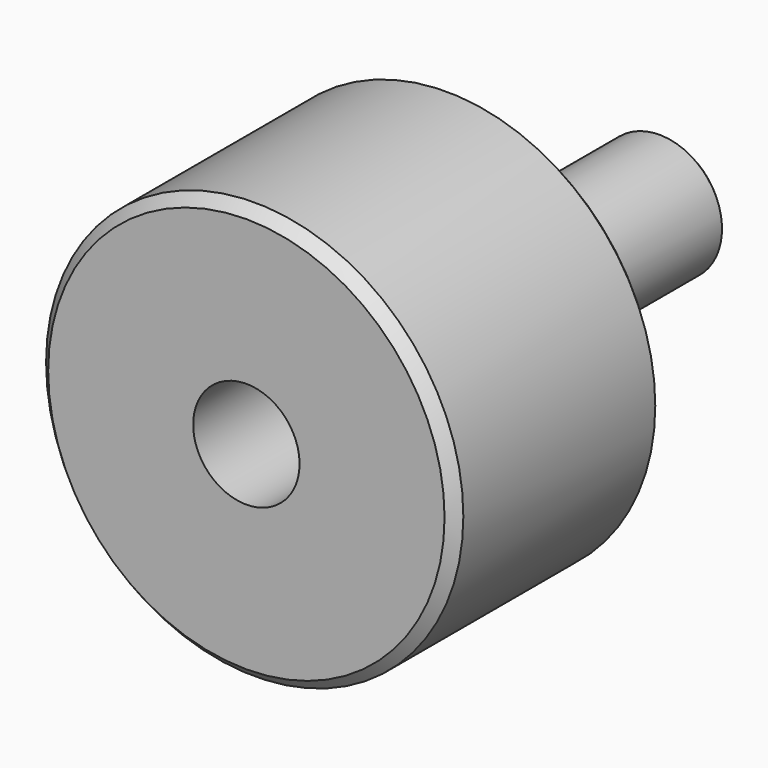
from build123d import *

# Parameters (mm, degrees)
F0_R     = 20
F0_R_2   = 5.1
F1_DEPTH = 25
F2_R     = 6
F2_R_2   = 5.1
F3_DEPTH = 25
F4_SIZE  = 1
F5_SIZE  = 0.5


with BuildPart() as f1:
    # F0 (on Front) → F1 (new body)
    with BuildSketch(Plane.XZ):
        Circle(F0_R)
        Circle(F0_R_2, mode=Mode.SUBTRACT)
    extrude(amount=F1_DEPTH)

    # F2 (on face) → F3 (join)
    with BuildSketch(Plane(origin=(0, 0, 0), x_dir=(-1, 0, 0), z_dir=(0, 1, 0))):
        Circle(F2_R)
        Circle(F2_R_2, mode=Mode.SUBTRACT)
    extrude(amount=F3_DEPTH)

    # F4
    f4_edges = [f1.edges().sort_by_distance(p)[0] for p in [
        (-20, -25, 0),
        (-20, 0, 0),
    ]]
    chamfer(f4_edges, length=F4_SIZE)

    # F5
    f5_edges = [f1.edges().sort_by_distance(p)[0] for p in [
        (6, 25, 0),
    ]]
    chamfer(f5_edges, length=F5_SIZE)


solid = f1.part
